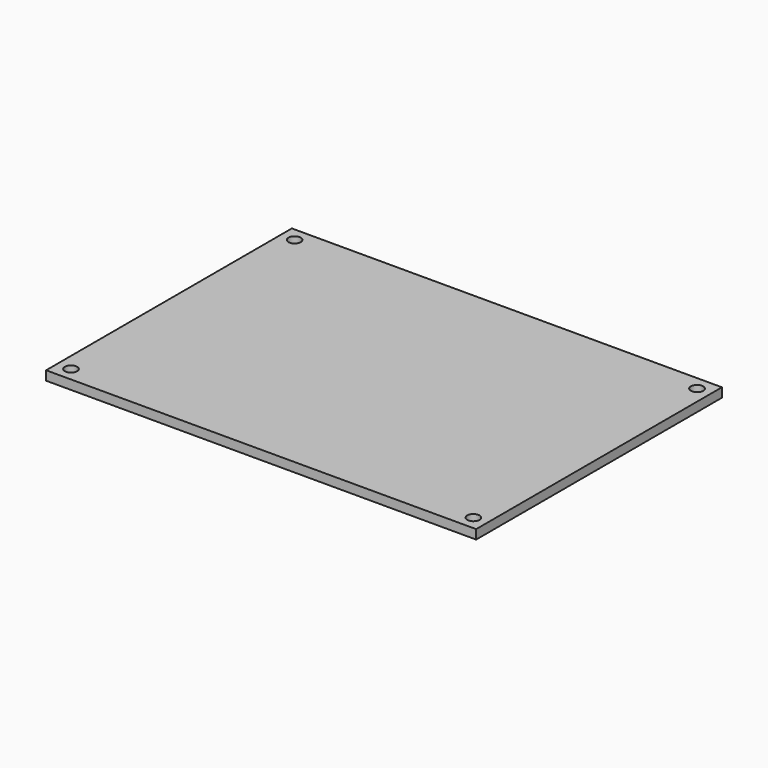
from build123d import *

# Parameters (mm, degrees)
CYLINDER004_R     = 1
CYLINDER004_DEPTH = 10
ARRAY002_X_COUNT  = 2
ARRAY002_X_PITCH  = 65.5
ARRAY002_Y_COUNT  = 2
ARRAY002_Y_PITCH  = 45.5
BOX005_W          = 70
BOX005_H          = 50
BOX005_DEPTH      = 1.5


with BuildPart() as pcb_hole_array:
    # Cylinder004 → Cylinder004 (new body)
    with BuildSketch(Plane.XY):
        Circle(CYLINDER004_R)
    extrude(amount=CYLINDER004_DEPTH)

    # Array002 X: pcb hole array ×2


with BuildPart() as pcb_hole_array_1:
    add(pcb_hole_array.part)
    with Locations(*[(i * ARRAY002_X_PITCH, 0, 0) for i in range(1, ARRAY002_X_COUNT)]):
        add(pcb_hole_array.part)

    # Array002 Y: pcb hole array ×2


with BuildPart() as pcb_hole_array_2:
    add(pcb_hole_array_1.part)
    with Locations(*[(0, i * ARRAY002_Y_PITCH, 0) for i in range(1, ARRAY002_Y_COUNT)]):
        add(pcb_hole_array_1.part)


with BuildPart() as pcb_hole_array_3:
    # Array002 placement: moved
    add(pcb_hole_array_2.part.moved(Location((2.25, 2.25, 0))))


with BuildPart() as pcb_7x5_mockup_cut:
    # Box005 → Box005 (new body)
    with BuildSketch(Plane.XY):
        with Locations((35, 25)):
            Rectangle(BOX005_W, BOX005_H)
    extrude(amount=BOX005_DEPTH)

    # Cut002: cut pcb hole array
    add(pcb_hole_array_3.part, mode=Mode.SUBTRACT)


with BuildPart() as pcb_7x5_mockup_cut_1:
    # Cut002 placement: moved
    add(pcb_7x5_mockup_cut.part.moved(Location((7, 7, 5))))


solid = pcb_7x5_mockup_cut_1.part
